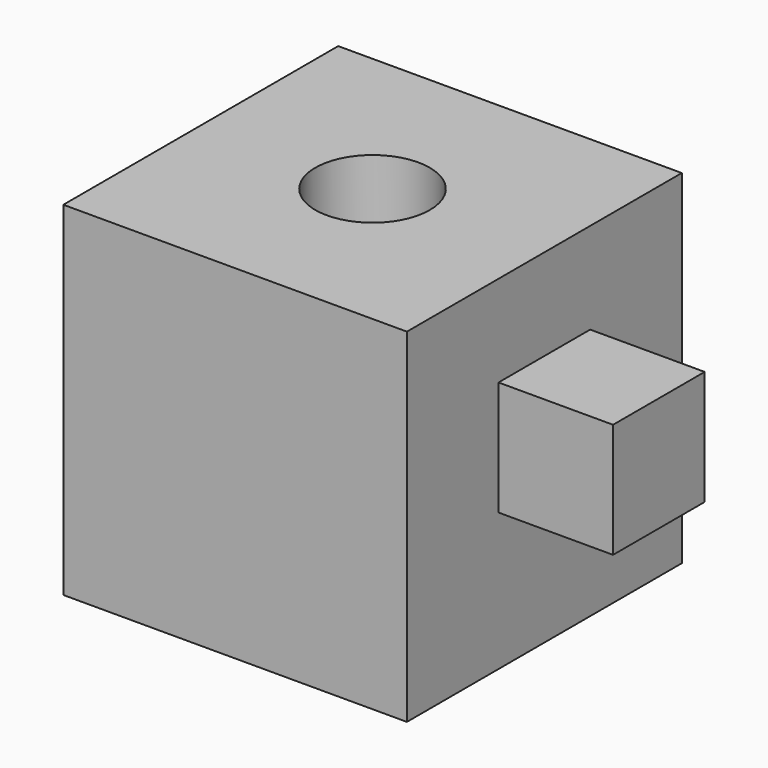
from build123d import *

# Parameters (mm, degrees)
F0_W     = 76.2
F0_H     = 76.2
F1_DEPTH = 76.2
F2_R     = 12.7
F3_DEPTH = 25.4
F4_W     = 25.4
F4_H     = 25.4
F5_DEPTH = 25.4
F6_R     = 12.7
F7_DEPTH = 25.4


with BuildPart() as f1:
    # F0 (on Front) → F1 (new body)
    with BuildSketch(Plane.XZ):
        with Locations((-38.1, 38.1)):
            Rectangle(F0_W, F0_H)
    extrude(amount=F1_DEPTH)

    # F2 (on face) → F3 (cut)
    with BuildSketch(Plane.XY.offset(76.2)):
        with Locations((-38.1, -38.1)):
            Circle(F2_R)
    extrude(amount=-F3_DEPTH, mode=Mode.SUBTRACT)

    # F4 (on face) → F5 (join)
    with BuildSketch(Plane.YZ):
        with Locations((-38.1, 43.252745)):
            Rectangle(F4_W, F4_H)
    extrude(amount=F5_DEPTH)

    # F6 (on face) → F7 (join)
    with BuildSketch(Plane(origin=(0, 0, 0), x_dir=(-1, 0, 0), z_dir=(0, 1, 0))):
        with Locations((38.1, 38.1)):
            Circle(F6_R)
    extrude(amount=F7_DEPTH)


solid = f1.part
